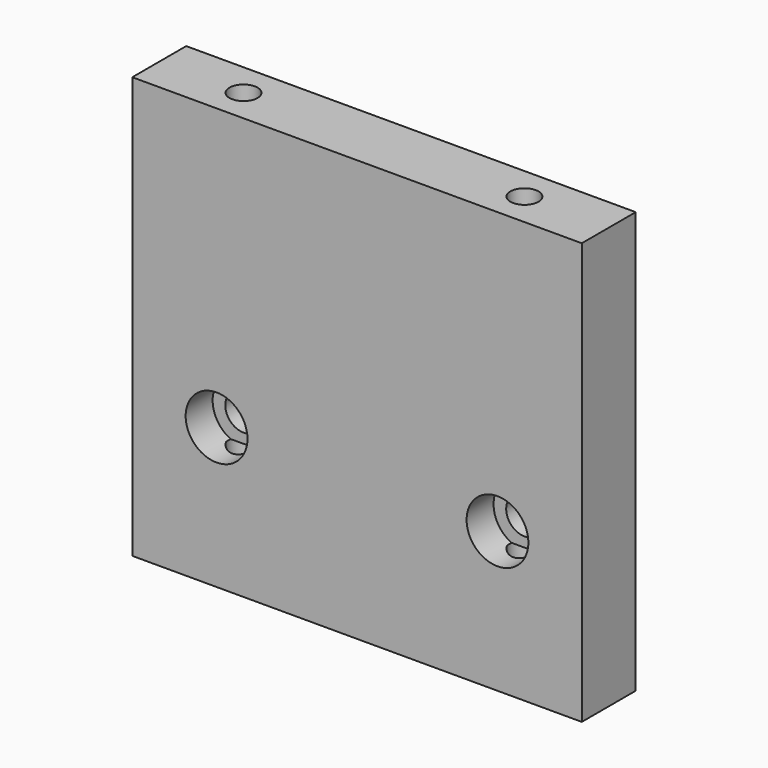
from build123d import *

# Parameters (mm, degrees)
F0_W     = 80
F0_H     = 75
F0_R     = 3.25
F1_DEPTH = 12
F2_R     = 5.5
F3_DEPTH = 6
F4_R     = 2.5
F5_DEPTH = 20
F6_R     = 2.5
F7_DEPTH = 20
F8_R     = 2.5
F9_DEPTH = 20


with BuildPart() as f1:
    # F0 (on Front) → F1 (new body)
    with BuildSketch(Plane.XZ):
        with Locations((40, 37.5)):
            Rectangle(F0_W, F0_H)
        with Locations((15, 25)):
            Circle(F0_R, mode=Mode.SUBTRACT)
        with Locations((65, 25)):
            Circle(F0_R, mode=Mode.SUBTRACT)
    extrude(amount=F1_DEPTH)

    # F2 (on face) → F3 (cut)
    with BuildSketch(Plane.XZ.offset(12)):
        with Locations((15, 25)):
            Circle(F2_R)
        with Locations((65, 25)):
            Circle(F2_R)
    extrude(amount=-F3_DEPTH, mode=Mode.SUBTRACT)

    # F4 (on face) → F5 (cut)
    with BuildSketch(Plane(origin=(0, 0, 0), x_dir=(1, 0, 0), z_dir=(0, 0, -1))):
        with Locations((15, 6)):
            Circle(F4_R)
        with Locations((65, 6)):
            Circle(F4_R)
    extrude(amount=-F5_DEPTH, mode=Mode.SUBTRACT)

    # F6 (on face) → F7 (cut)
    with BuildSketch(Plane.XY.offset(75)):
        with Locations((15, -6)):
            Circle(F6_R)
        with Locations((65, -6)):
            Circle(F6_R)
    extrude(amount=-F7_DEPTH, mode=Mode.SUBTRACT)

    # F8 (on face) → F9 (cut)
    with BuildSketch(Plane(origin=(0, 0, 0), x_dir=(0, -1, 0), z_dir=(-1, 0, 0))):
        with Locations((6, 62.5)):
            Circle(F8_R)
        with Locations((6, 12.5)):
            Circle(F8_R)
    extrude(amount=-F9_DEPTH, mode=Mode.SUBTRACT)


solid = f1.part
